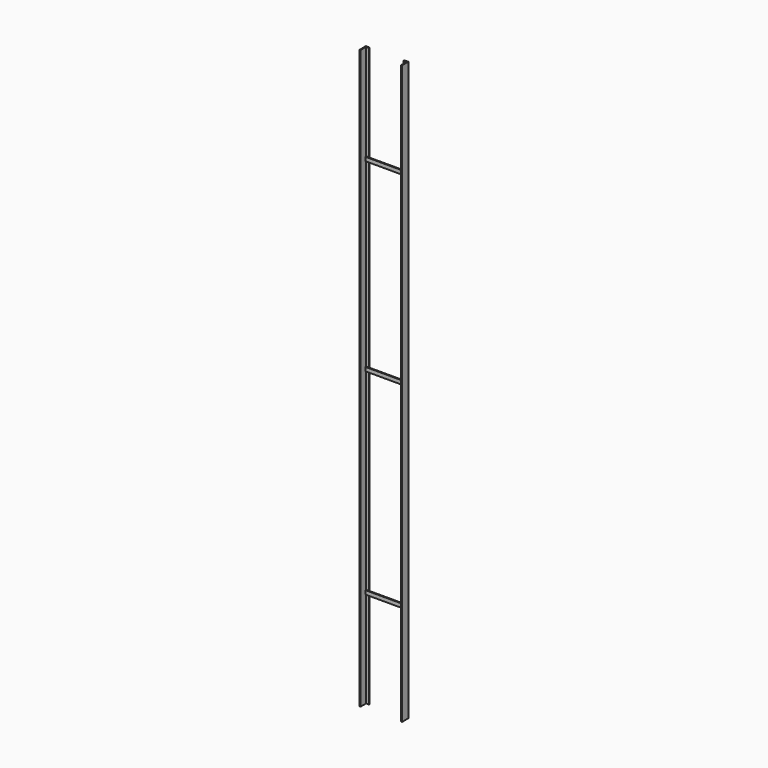
from build123d import *

# Parameters (mm, degrees)
F1_DEPTH = 3000
F2_W     = 210
F2_H     = 20
F3_DEPTH = 5
F4_W     = 210
F4_H     = 20
F5_DEPTH = 5
F6_W     = 210
F6_H     = 20
F7_DEPTH = 5


with BuildPart() as f1:
    # F0 (on Top) → F1 (new body)
    with BuildSketch(Plane.XY):
        Polygon((-35, 55), (-55, 55), (-55, 15), (-50, 15), (-50, 50), (-35, 50), align=None)
        Polygon((165, 55), (145, 55), (145, 50), (160, 50), (160, 15), (165, 15), align=None)
    extrude(amount=F1_DEPTH)


with BuildPart() as f3:
    # F2 (on face) → F3 (new body)
    with BuildSketch(Plane.XZ.offset(-50)):
        with Locations((55, 2490)):
            Rectangle(F2_W, F2_H)
    extrude(amount=F3_DEPTH)


with BuildPart() as f5:
    # F4 (on face) → F5 (new body)
    with BuildSketch(Plane.XZ.offset(-50)):
        with Locations((55, 510)):
            Rectangle(F4_W, F4_H)
    extrude(amount=F5_DEPTH)


with BuildPart() as f7:
    # F6 (on face) → F7 (new body)
    with BuildSketch(Plane.XZ.offset(-50)):
        with Locations((55, 1530)):
            Rectangle(F6_W, F6_H)
    extrude(amount=F7_DEPTH)


solid = Compound([f1.part, f3.part, f5.part, f7.part])
